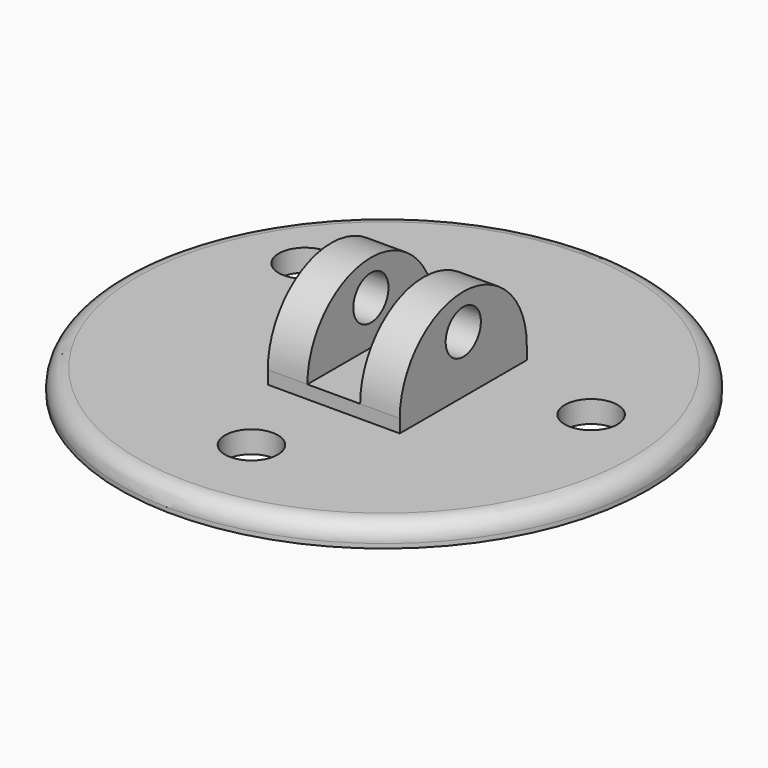
from build123d import *

# Parameters (mm, degrees)
SKETCH008_R        = 5
PAD003_DEPTH       = 30
SKETCH009_W        = 12
SKETCH009_H        = 21.7
POCKET002_DEPTH    = 20
SKETCH010_R        = 60
SKETCH010_R_2      = 6
PAD004_DEPTH       = 5
FILLET_R           = 4
BODY004_ROLL_ANGLE = 90


with BuildPart() as part:
    # Sketch008 → Pad003 (new body)
    with BuildSketch(Plane.YZ):
        with BuildLine():
            ThreePointArc((0, -18.042356), (18.042356, 0), (0, 18.042356))
            Line((0, 18.042356), (-5.957898, 18.042356))
            Line((-5.957898, -18.042356), (-5.957898, 18.042356))
            Line((0, -18.042356), (-5.957898, -18.042356))
        make_face()
        with Locations((10, 0)):
            Circle(SKETCH008_R, mode=Mode.SUBTRACT)
    extrude(amount=PAD003_DEPTH)

    # Sketch009 → Pocket002 (cut, symmetric)
    with BuildSketch(Plane.XY):
        with Locations((15, 10.85)):
            Rectangle(SKETCH009_W, SKETCH009_H)
    extrude(amount=POCKET002_DEPTH, both=True, mode=Mode.SUBTRACT)

    # Sketch010 → Pad004 (join)
    with BuildSketch(Plane(origin=(12, -3, 0), x_dir=(1, 0, 0), z_dir=(0, -1, 0))):
        Circle(SKETCH010_R)
        with Locations((0.190896, 37.924703)):
            Circle(SKETCH010_R_2, mode=Mode.SUBTRACT)
        with Locations((-36, -22.55)):
            Circle(SKETCH010_R_2, mode=Mode.SUBTRACT)
        with Locations((40, -8.84)):
            Circle(SKETCH010_R_2, mode=Mode.SUBTRACT)
    extrude(amount=PAD004_DEPTH)

    # Fillet
    fillet_edges = [part.edges().sort_by_distance(p)[0] for p in [
        (-48, -3, 0),
    ]]
    fillet(fillet_edges, radius=FILLET_R)


with BuildPart() as part_1:
    # Body004 roll: moved
    add(part.part.rotate(Axis((0, 0, 0), (1, 0, 0)), BODY004_ROLL_ANGLE))


with BuildPart() as part_2:
    # Body004 placement: moved
    add(part_1.part.moved(Location((0, 0, 21))))


solid = part_2.part
